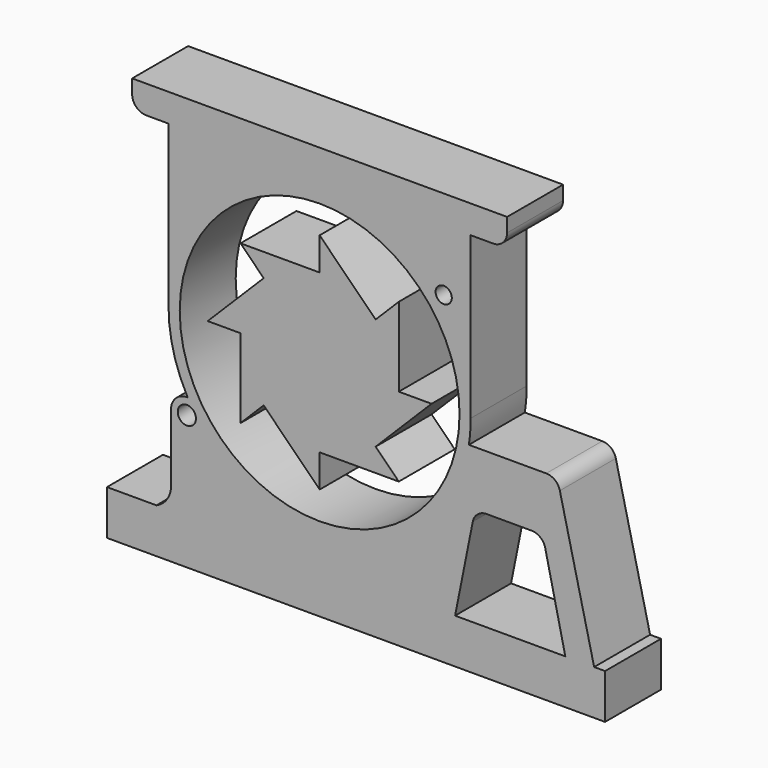
from build123d import *

# Parameters (mm, degrees)
F0_R     = 50
F0_R_2   = 2.895351
F1_DEPTH = 25


with BuildPart() as f1:
    # F0 (on Front) → F1 (new body)
    with BuildSketch(Plane.XZ):
        Polygon((-56, -57.914817), (-56, -73.914817), (122, -73.914817), (122, -57.914817), (118.096977, -57.914817), (107.801028, -57.914817), (68.407111, -57.914817), (40, -57.914817), (20, -57.914817), (0, -57.914817), (-38.331185, -57.914817), align=None)
        with BuildLine():
            ThreePointArc((-33.07766, -49.990244), (-34.510324, -54.744147), (-38.331185, -57.914817))
            Line((-38.331185, -57.914817), (0, -57.914817))
            Line((0, -57.914817), (0, -44.146832))
            ThreePointArc((0, -44.146832), (-8.263853, -39.999636), (-15.699073, -34.503456))
            ThreePointArc((-15.699073, -34.503456), (-19.033027, -31.302269), (-22.081022, -27.827708))
            ThreePointArc((-22.081022, -27.827708), (-28.027375, -31.661471), (-33.07766, -26.706526))
            Line((-33.07766, -26.706526), (-33.07766, -49.990244))
        make_face()
        with BuildLine():
            Line((107.801028, -57.914817), (118.096977, -57.914817))
            Line((118.096977, -57.914817), (105.842821, -6.410397))
            ThreePointArc((105.842821, -6.410397), (104.078072, -3.644285), (100.978603, -2.567713))
            Line((100.978603, -2.567713), (73.313909, -2.567713))
            ThreePointArc((73.313909, -2.567713), (62.14188, -27.75189), (40, -44.146832))
            Line((40, -44.146832), (40, -57.914817))
            Line((40, -57.914817), (68.407111, -57.914817))
            Line((68.407111, -57.914817), (74.723418, -26.292009))
            ThreePointArc((74.723418, -26.292009), (76.456137, -23.405046), (79.626567, -22.271359))
            Line((79.626567, -22.271359), (95.737736, -22.271359))
            ThreePointArc((95.737736, -22.271359), (98.858665, -23.364978), (100.614349, -26.167436))
            Line((100.614349, -26.167436), (107.801028, -57.914817))
        make_face()
        with BuildLine():
            ThreePointArc((-15.699073, -34.503456), (-8.263853, -39.999636), (0, -44.146832))
            ThreePointArc((0, -44.146832), (9.817324, -47.018334), (20, -47.987087))
            ThreePointArc((20, -47.987087), (30.182676, -47.018334), (40, -44.146832))
            ThreePointArc((40, -44.146832), (62.14188, -27.75189), (73.313909, -2.567713))
            ThreePointArc((73.313909, -2.567713), (73.828204, 1.708907), (74, 6.012913))
            ThreePointArc((74, 6.012913), (72.226052, 19.740238), (67.020761, 32.565654))
            ThreePointArc((67.020761, 32.565654), (65.841708, 34.553022), (64.578709, 36.488127))
            ThreePointArc((64.578709, 36.488127), (68.378165, 44.919437), (59.328114, 43.016959))
            ThreePointArc((59.328114, 43.016959), (57.946094, 44.43288), (56.513131, 45.797222))
            ThreePointArc((56.513131, 45.797222), (-1.728909, 55.44827), (-34, 6.012913))
            ThreePointArc((-34, 6.012913), (-32.365923, -7.170793), (-27.562589, -19.556602))
            ThreePointArc((-27.562589, -19.556602), (-27.341667, -19.963356), (-27.117266, -20.368202))
            ThreePointArc((-27.117266, -20.368202), (-25.976048, -22.310276), (-24.754829, -24.203065))
            ThreePointArc((-24.754829, -24.203065), (-23.455733, -26.043276), (-22.081022, -27.827708))
            ThreePointArc((-22.081022, -27.827708), (-19.033027, -31.302269), (-15.699073, -34.503456))
        make_face()
        with Locations((20, 6.012913)):
            Circle(F0_R, mode=Mode.SUBTRACT)
        with Locations((64.336464, 41.669033)):
            Circle(F0_R_2, mode=Mode.SUBTRACT)
        with BuildLine():
            ThreePointArc((-27.117266, -20.368202), (-31.580435, -22.142816), (-33.07766, -26.706526))
            ThreePointArc((-33.07766, -26.706526), (-28.027375, -31.661471), (-22.081022, -27.827708))
            ThreePointArc((-22.081022, -27.827708), (-23.455733, -26.043276), (-24.754829, -24.203065))
            ThreePointArc((-24.754829, -24.203065), (-25.976048, -22.310276), (-27.117266, -20.368202))
        make_face()
        with BuildLine():
            ThreePointArc((-24.197531, -26.024481), (-30.56532, -26.976865), (-24.754829, -24.203065))
            ThreePointArc((-24.754829, -24.203065), (-24.339972, -25.072098), (-24.197531, -26.024481))
        make_face(mode=Mode.SUBTRACT)
        with BuildLine():
            ThreePointArc((67.020761, 32.565654), (72.226052, 19.740238), (74, 6.012913))
            Line((74, 6.012913), (74, 63.585183))
            Line((74, 63.585183), (-34, 63.585183))
            Line((-34, 63.585183), (-34, 6.012913))
            ThreePointArc((-34, 6.012913), (-1.728909, 55.44827), (56.513131, 45.797222))
            ThreePointArc((56.513131, 45.797222), (57.946094, 44.43288), (59.328114, 43.016959))
            ThreePointArc((59.328114, 43.016959), (68.378165, 44.919437), (64.578709, 36.488127))
            ThreePointArc((64.578709, 36.488127), (65.841708, 34.553022), (67.020761, 32.565654))
        make_face()
        with BuildLine():
            Line((-34, 63.585183), (74, 63.585183))
            Line((74, 63.585183), (82, 63.585183))
            ThreePointArc((82, 63.585183), (85.535534, 65.049649), (87, 68.585183))
            Line((87, 68.585183), (87, 73.585183))
            Line((87, 73.585183), (20, 73.585183))
            Line((20, 73.585183), (-47, 73.585183))
            Line((-47, 73.585183), (-47, 68.585183))
            ThreePointArc((-47, 68.585183), (-45.535534, 65.049649), (-42, 63.585183))
            Line((-42, 63.585183), (-34, 63.585183))
        make_face()
        with BuildLine():
            Line((48.284271, 6.012913), (30, 6.012913))
            ThreePointArc((30, 6.012913), (29.238795, 2.186078), (27.071068, -1.058155))
            Line((27.071068, -1.058155), (40, -13.987087))
            Line((40, -13.987087), (60, 6.012913))
            Line((60, 6.012913), (48.284271, 6.012913))
        make_face()
        with BuildLine():
            Line((40, -13.987087), (27.071068, -1.058155))
            ThreePointArc((27.071068, -1.058155), (23.826834, -3.225883), (20, -3.987087))
            Line((20, -3.987087), (20, -22.271359))
            Line((20, -22.271359), (48.284271, -22.271359))
            Line((48.284271, -22.271359), (40, -13.987087))
        make_face()
        with BuildLine():
            Line((20, -22.271359), (20, -3.987087))
            ThreePointArc((20, -3.987087), (16.173166, -3.225883), (12.928932, -1.058155))
            Line((12.928932, -1.058155), (0, -13.987087))
            Line((0, -13.987087), (20, -33.987087))
            Line((20, -33.987087), (20, -22.271359))
        make_face()
        with BuildLine():
            Line((0, -13.987087), (12.928932, -1.058155))
            ThreePointArc((12.928932, -1.058155), (10.761205, 2.186078), (10, 6.012913))
            Line((10, 6.012913), (-8.284271, 6.012913))
            Line((-8.284271, 6.012913), (-8.284271, -22.271359))
            Line((-8.284271, -22.271359), (0, -13.987087))
        make_face()
        with BuildLine():
            ThreePointArc((10, 6.012913), (10.761205, 9.839747), (12.928932, 13.083981))
            Line((12.928932, 13.083981), (0, 26.012913))
            Line((0, 26.012913), (-20, 6.012913))
            Line((-20, 6.012913), (-8.284271, 6.012913))
            Line((-8.284271, 6.012913), (10, 6.012913))
        make_face()
        with BuildLine():
            ThreePointArc((12.928932, 13.083981), (16.173166, 15.251708), (20, 16.012913))
            Line((20, 16.012913), (20, 34.297184))
            Line((20, 34.297184), (-8.284271, 34.297184))
            Line((-8.284271, 34.297184), (0, 26.012913))
            Line((0, 26.012913), (12.928932, 13.083981))
        make_face()
        with BuildLine():
            ThreePointArc((20, 16.012913), (23.826834, 15.251708), (27.071068, 13.083981))
            Line((27.071068, 13.083981), (40, 26.012913))
            Line((40, 26.012913), (20, 46.012913))
            Line((20, 46.012913), (20, 34.297184))
            Line((20, 34.297184), (20, 16.012913))
        make_face()
        with BuildLine():
            ThreePointArc((27.071068, 13.083981), (29.238795, 9.839747), (30, 6.012913))
            Line((30, 6.012913), (48.284271, 6.012913))
            Line((48.284271, 6.012913), (48.284271, 34.297184))
            Line((48.284271, 34.297184), (40, 26.012913))
            Line((40, 26.012913), (27.071068, 13.083981))
        make_face()
        with BuildLine():
            ThreePointArc((27.071068, -1.058155), (29.238795, 2.186078), (30, 6.012913))
            ThreePointArc((30, 6.012913), (29.238795, 9.839747), (27.071068, 13.083981))
            ThreePointArc((27.071068, 13.083981), (23.826834, 15.251708), (20, 16.012913))
            ThreePointArc((20, 16.012913), (16.173166, 15.251708), (12.928932, 13.083981))
            ThreePointArc((12.928932, 13.083981), (10.761205, 9.839747), (10, 6.012913))
            ThreePointArc((10, 6.012913), (10.761205, 2.186078), (12.928932, -1.058155))
            ThreePointArc((12.928932, -1.058155), (16.173166, -3.225883), (20, -3.987087))
            ThreePointArc((20, -3.987087), (23.826834, -3.225883), (27.071068, -1.058155))
        make_face()
        with BuildLine():
            Line((0, -44.146832), (0, -57.914817))
            Line((0, -57.914817), (20, -57.914817))
            Line((20, -57.914817), (20, -47.987087))
            ThreePointArc((20, -47.987087), (9.817324, -47.018334), (0, -44.146832))
        make_face()
        with BuildLine():
            Line((20, -47.987087), (20, -57.914817))
            Line((20, -57.914817), (40, -57.914817))
            Line((40, -57.914817), (40, -44.146832))
            ThreePointArc((40, -44.146832), (30.182676, -47.018334), (20, -47.987087))
        make_face()
    extrude(amount=F1_DEPTH)


solid = f1.part
